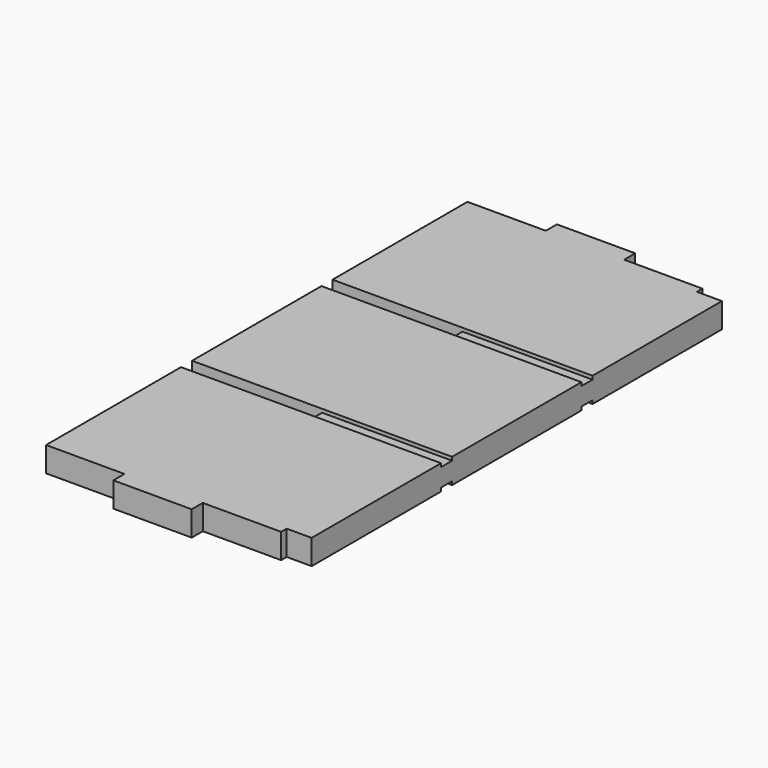
from build123d import *

# Parameters (mm, degrees)
SKETCH004_W              = 18
SKETCH004_H              = 169.6125627158
PAD003_DEPTH             = 5
SKETCH005_W              = 18
SKETCH005_H              = 56.5375209053
PAD004_DEPTH             = 10
PAD005_DEPTH             = 18
SKETCH007_W              = 93.8062813579
SKETCH007_H              = 10
POCKET_DEPTH             = 2.5
SKETCH008_W              = 93.8062813579
SKETCH008_H              = 10
POCKET001_DEPTH          = 2.5
CLONE025_PITCH_ANGLE     = 90
CLONE025_PLACEMENT_ANGLE = 90


with BuildPart() as part:
    # Sketch004 → Pad003 (new body)
    with BuildSketch(Plane.XY):
        with Locations((0, -97.1937186421)):
            Rectangle(SKETCH004_W, SKETCH004_H)
    extrude(amount=PAD003_DEPTH)

    # Sketch005 (on Face5 of Pad003) → Pad004 (join)
    with BuildSketch(Plane(origin=(0, 0, 0), x_dir=(1, 0, 0), z_dir=(0, 0, -1))):
        with Locations((0, 97.1937186421)):
            Rectangle(SKETCH005_W, SKETCH005_H)
    extrude(amount=PAD004_DEPTH)

    # Sketch006 (on Face9 of Pad004) → Pad005 (join)
    with BuildSketch(Plane.YZ.offset(9)):
        Polygon((-12.3874372842, 0), (-68.9249581895, 0), (-68.9249581895, -10), (-125.4624790947, -10), (-125.4624790947, 0), (-182, 0), (-182, 5), (-200, 5), (-200, 375), (-182, 375), (-182, 380), (-125.4624790947, 380), (-125.4624790947, 390), (-68.9249581895, 390), (-68.9249581895, 380), (-12.3874372842, 380), (-12.3874372842, 375), (-12.3874372842, 258.3333333333), (-106.1937186421, 258.3333333333), (-106.1937186421, 248.3333333333), (-12.3874372842, 248.3333333333), (-12.3874372842, 131.6666666667), (-106.1937186421, 131.6666666667), (-106.1937186421, 121.6666666667), (-12.3874372842, 121.6666666667), (-12.3874372842, 5), align=None)
    extrude(amount=-PAD005_DEPTH)

    # Sketch007 (on Face11 of Pad005) → Pocket (cut)
    with BuildSketch(Plane.YZ.offset(9)):
        with Locations((-153.0968593211, 253.3333333333)):
            Rectangle(SKETCH007_W, SKETCH007_H)
        with Locations((-153.0968593211, 126.6666666667)):
            Rectangle(SKETCH007_W, SKETCH007_H)
    extrude(amount=-POCKET_DEPTH, mode=Mode.SUBTRACT)

    # Sketch008 (on Face9 of Pocket) → Pocket001 (cut)
    with BuildSketch(Plane(origin=(-9, 0, 0), x_dir=(0, -1, 0), z_dir=(-1, 0, 0))):
        with Locations((153.0968593211, 126.6666666667)):
            Rectangle(SKETCH008_W, SKETCH008_H)
        with Locations((153.0968593211, 253.3333333333)):
            Rectangle(SKETCH008_W, SKETCH008_H)
    extrude(amount=-POCKET001_DEPTH, mode=Mode.SUBTRACT)


with BuildPart() as part_1:
    # Body004 placement: moved
    add(part.part.moved(Location((0, 0, 13))))


with BuildPart() as part_2:
    # Clone025 pitch: moved
    add(part_1.part.rotate(Axis((0, 0, 0), (0, 1, 0)), CLONE025_PITCH_ANGLE))


with BuildPart() as part_3:
    # Clone025 placement: moved
    add(part_2.part.moved(Location((0, -203, 9))).rotate(Axis((0, -203, 9), (0, 0, 1)), CLONE025_PLACEMENT_ANGLE))


solid = part_3.part
